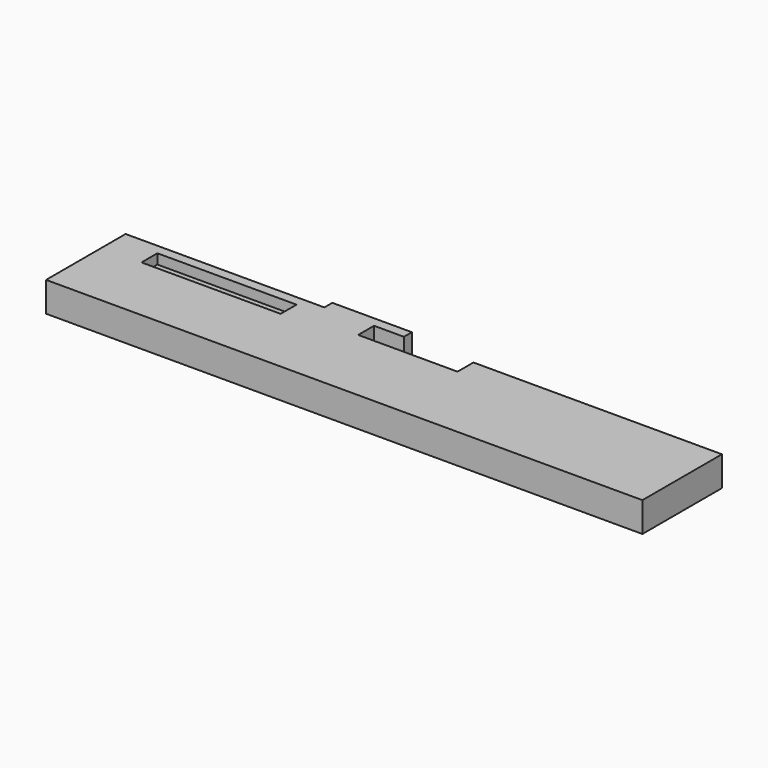
from build123d import *

# Parameters (mm, degrees)
F0_W     = 300
F0_H     = 50
F1_DEPTH = 15
F2_W     = 50
F2_H     = 10
F3_DEPTH = 15.001
F5_W     = 40
F5_H     = 15
F6_DEPTH = 5
F7_W     = 70
F7_H     = 10
F8_DEPTH = 5


with BuildPart() as f1:
    # F0 (on Top) → F1 (new body)
    with BuildSketch(Plane.XY):
        Rectangle(F0_W, F0_H)
    extrude(amount=F1_DEPTH)

    # F2 (on face) → F3 (cut, through all)
    with BuildSketch(Plane.XY.offset(15)):
        with Locations((0, 20)):
            Rectangle(F2_W, F2_H)
    extrude(amount=-F3_DEPTH, mode=Mode.SUBTRACT)

    # F5 (on face) → F6 (join)
    with BuildSketch(Plane(origin=(0, 25, 0), x_dir=(-1, 0, 0), z_dir=(0, 1, 0))):
        with Locations((30, 7.5)):
            Rectangle(F5_W, F5_H)
    extrude(amount=F6_DEPTH)

    # F7 (on face) → F8 (cut)
    with BuildSketch(Plane.XY.offset(15)):
        with Locations((-95, 15)):
            Rectangle(F7_W, F7_H)
    extrude(amount=-F8_DEPTH, mode=Mode.SUBTRACT)


solid = f1.part
